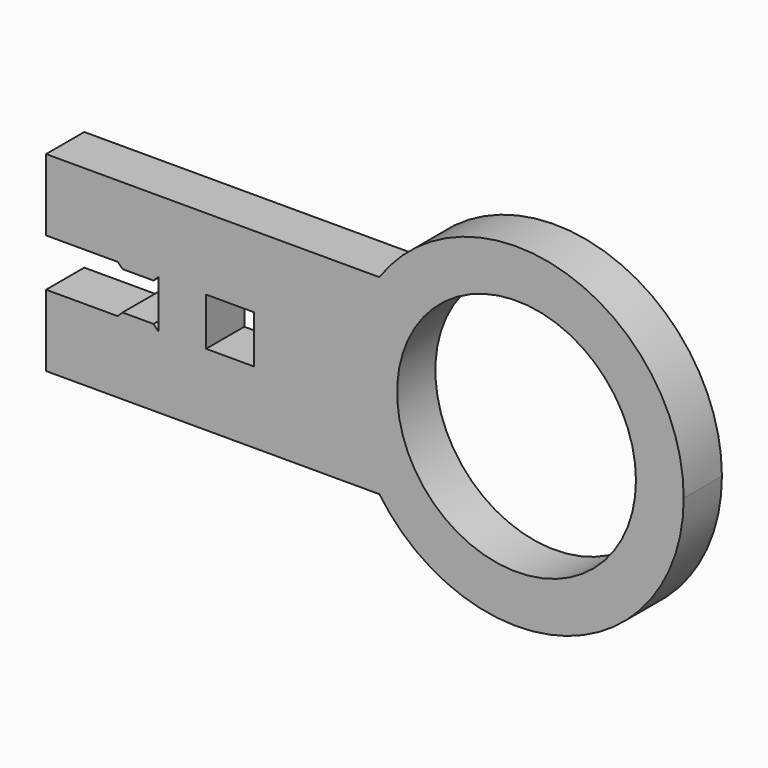
from build123d import *

# Parameters (mm, degrees)
F0_R     = 5
F0_W     = 3
F0_H     = 3
F1_DEPTH = 2


with BuildPart() as f1:
    # F0 (on Front) → F1 (new body)
    with BuildSketch(Plane.XZ):
        with BuildLine():
            ThreePointArc((18.958906, -4), (26.799663, -6.67877), (31.703468, 0))
            ThreePointArc((31.703468, 0), (26.799663, 6.67877), (18.958906, 4))
            ThreePointArc((18.958906, 4), (18.191959, 2.569095), (17.775265, 1))
            ThreePointArc((17.775265, 1), (17.703468, 0), (17.775265, -1))
            ThreePointArc((17.775265, -1), (18.191959, -2.569095), (18.958906, -4))
        make_face()
        with Locations((24.703468, 0)):
            Circle(F0_R, mode=Mode.SUBTRACT)
        with BuildLine():
            ThreePointArc((17.775265, 1), (18.191959, 2.569095), (18.958906, 4))
            Line((18.958906, 4), (8.003468, 4))
            Line((8.003468, 4), (8.003468, 1))
            Line((8.003468, 1), (9.703468, 1))
            Line((9.703468, 1), (11.703468, 1))
            Line((11.703468, 1), (13.703468, 1))
            Line((13.703468, 1), (17.775265, 1))
        make_face()
        with BuildLine():
            ThreePointArc((17.775265, -1), (17.703468, 0), (17.775265, 1))
            Line((17.775265, 1), (13.703468, 1))
            Line((13.703468, 1), (13.703468, -1))
            Line((13.703468, -1), (17.775265, -1))
        make_face()
        Polygon((11.703468, -1), (11.703468, 1), (9.703468, 1), (9.703468, 0), (9.703468, -1), align=None)
        with BuildLine():
            Line((8.003468, -4), (18.958906, -4))
            ThreePointArc((18.958906, -4), (18.191959, -2.569095), (17.775265, -1))
            Line((17.775265, -1), (13.703468, -1))
            Line((13.703468, -1), (11.703468, -1))
            Line((11.703468, -1), (9.703468, -1))
            Line((9.703468, -1), (8.003468, -1))
            Line((8.003468, -1), (8.003468, -4))
        make_face()
        Polygon((8.203468, -0.8), (8.003468, -1), (9.703468, -1), (9.503468, -0.8), align=None)
        Polygon((9.703468, 1), (8.003468, 1), (8.203468, 0.8), (9.503468, 0.8), align=None)
        with Locations((6.503468, 2.5)):
            Rectangle(F0_W, F0_H)
        with Locations((6.503468, -2.5)):
            Rectangle(F0_W, F0_H)
    extrude(amount=F1_DEPTH)


solid = f1.part
